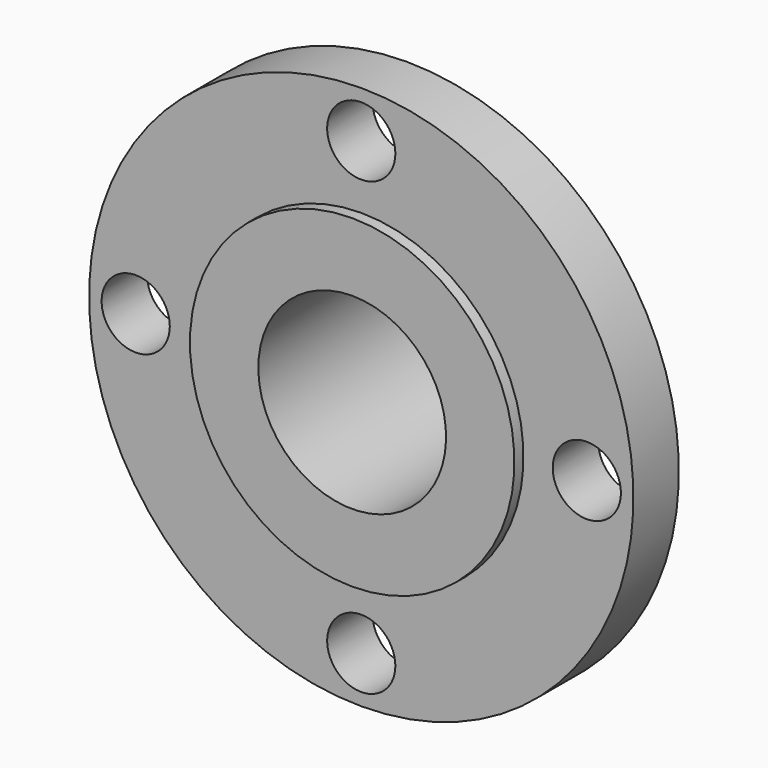
from build123d import *

# Parameters (mm, degrees)
F2_R     = 9.54913
F3_DEPTH = 60.326


with BuildPart() as f1:
    # F0 (on Right) → F1 (revolve)
    with BuildSketch(Plane.YZ):
        Polygon((0, 19.15033), (0, 0), (63.5, 0), (62.302494, 3.9497), (59.635494, 3.9497), (22.27326, 12.55014), (19.09826, 12.55014), (19.09826, 49.95037), (3.175, 49.95037), (3.175, 19.15033), align=None)
    revolve(axis=Axis((0, 4.994582, -26.29916), (0, 1, 0)))

    # F2 (on face) → F3 (cut, through all)
    with BuildSketch(Plane.XZ.offset(-3.175)):
        with Locations((0, 36.885909)):
            Circle(F2_R)
        with Locations((63.185069, -26.29916)):
            Circle(F2_R)
        with Locations((0, -89.484229)):
            Circle(F2_R)
        with Locations((-63.185069, -26.29916)):
            Circle(F2_R)
    extrude(amount=-F3_DEPTH, mode=Mode.SUBTRACT)


solid = f1.part
